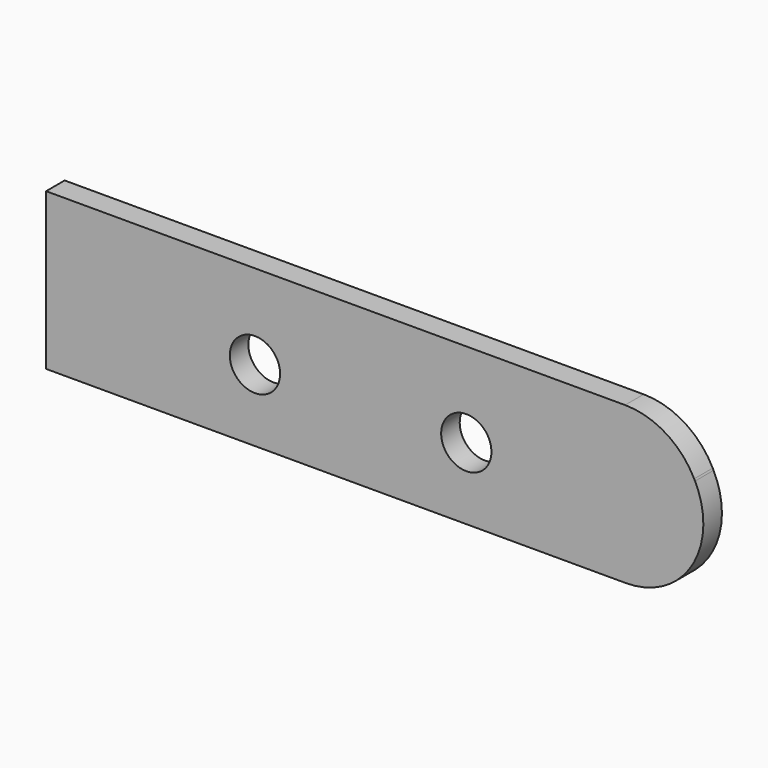
from build123d import *

# Parameters (mm, degrees)
F1_DEPTH       = 3
F3_D           = 3.3
F3_DEPTH       = 14.4
F3_CBORE_D     = 6.5
F3_CBORE_DEPTH = 3
F3_TIP         = 0.9914200214


with BuildPart() as f1:
    # F0 (on Front) → F1 (new body)
    with BuildSketch(Plane.XZ):
        with BuildLine():
            Line((52.4541210128, 6.1781848239), (-22.3743356764, 6.1781848239))
            Line((-22.3743356764, 6.1781848239), (-22.3743356764, -14.0438194092))
            Line((-22.3743356764, -14.0438194092), (52.5663935712, -14.0438194092))
            ThreePointArc((52.5663935712, -14.0438194092), (61.0848860922, -9.2816896986), (61.4901453485, 0.469123557))
            Line((61.4901453485, 0.469123557), (61.3778727901, 0.6911277901))
            ThreePointArc((61.3778727901, 0.6911277901), (57.6919913022, 4.696677345), (52.4541210128, 6.1781848239))
        make_face()
    extrude(amount=F1_DEPTH)

    # F3
    with Locations(Plane(origin=(0, 0, 0), x_dir=(-1, 0, 0), z_dir=(0, 1, 0))):
        with Locations((-31.9307483733, -4.7722645104), (-4.6180379577, -4.7722645104)):
            CounterBoreHole(F3_D / 2, F3_CBORE_D / 2, F3_CBORE_DEPTH, depth=F3_DEPTH)
            with Locations((0, 0, -(F3_DEPTH + F3_TIP / 2))):  # 118° drill point
                Cone(0, F3_D / 2, F3_TIP, mode=Mode.SUBTRACT)


solid = f1.part
